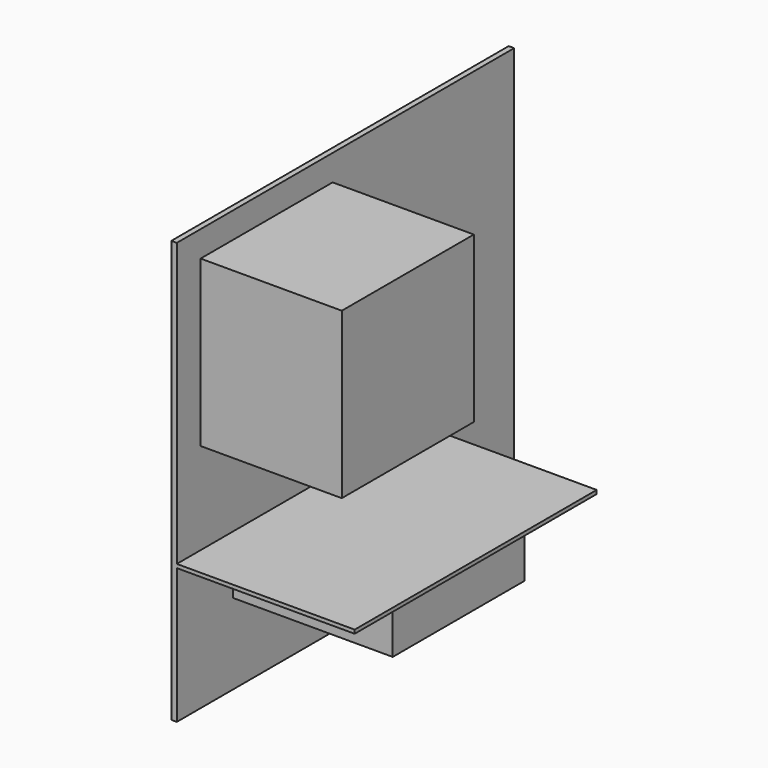
from build123d import *

# Parameters (mm, degrees)
F0_W     = 90
F0_H     = 90
F1_DEPTH = 3
F0_H_2   = 30
F2_DEPTH = 90
F3_DEPTH = 100
F4_DEPTH = 80


with BuildPart() as f1:
    # F0 (on Right) → F1 (new body)
    with BuildSketch(Plane.YZ):
        Polygon((264.885695, 154.677426), (34.885695, 154.677426), (34.885695, 0.538323), (199.884153, 0.538323), (199.884153, -1.461677), (163.329955, -1.461677), (163.329955, -31.461677), (73.329955, -31.461677), (73.329955, -1.461677), (34.885695, -1.461677), (34.885695, -75.322574), (264.885695, -75.322574), align=None)
        with Locations((96.11488, 95.538323)):
            Rectangle(F0_W, F0_H, mode=Mode.SUBTRACT)
    extrude(amount=F1_DEPTH)

    # F0 (on Right) → F2 (join)
    with BuildSketch(Plane.YZ):
        with Locations((118.329955, -16.461677)):
            Rectangle(F0_W, F0_H_2)
    extrude(amount=F2_DEPTH)

    # F0 (on Right) → F3 (join)
    with BuildSketch(Plane.YZ):
        Polygon((199.884153, 0.538323), (34.885695, 0.538323), (34.885695, -1.461677), (73.329955, -1.461677), (163.329955, -1.461677), (199.884153, -1.461677), align=None)
    extrude(amount=F3_DEPTH)

    # F0 (on Right) → F4 (join)
    with BuildSketch(Plane.YZ):
        with Locations((96.11488, 95.538323)):
            Rectangle(F0_W, F0_H)
    extrude(amount=F4_DEPTH)


solid = f1.part
